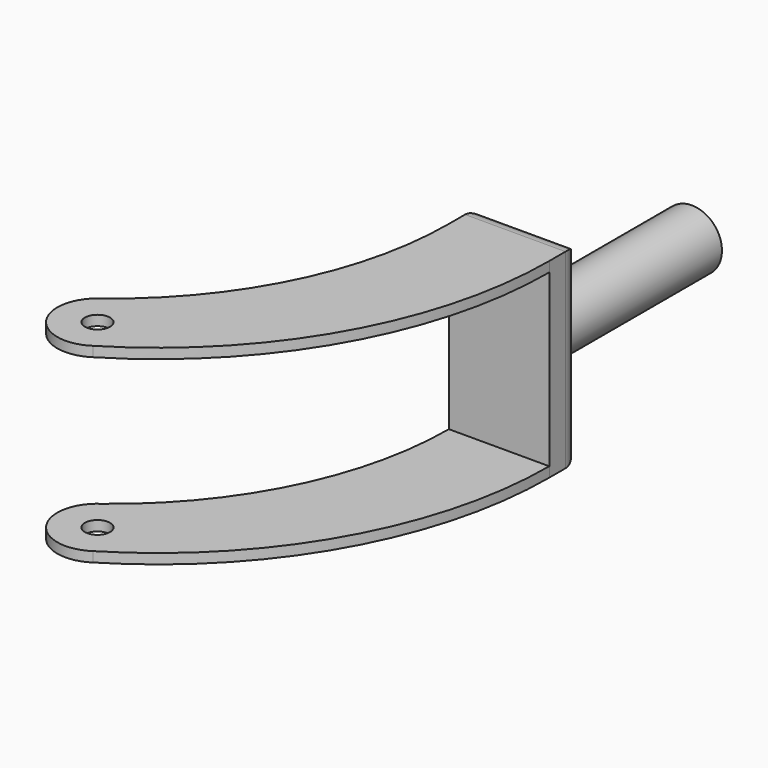
from build123d import *

# Parameters (mm, degrees)
SKETCH_R     = 3.969
PAD_DEPTH    = 30.1625
SKETCH001_W  = 127
SKETCH001_H  = 53.975
POCKET_DEPTH = 79.376
SKETCH002_R  = 9.525
PAD001_DEPTH = 63.5
FILLET_R     = 6.3


with BuildPart() as part:
    # Sketch → Pad (new body, symmetric)
    with BuildSketch(Plane.XY):
        with BuildLine():
            ThreePointArc((-7.075094, 10.546707), (-10.546707, -7.075094), (7.075094, -10.546707))
            ThreePointArc((7.075094, -10.546707), (50.749937, 34.535315), (66.675, 95.25))
            Line((66.675, 95.25), (66.675, 107.95))
            Line((34.925, 107.95), (66.675, 107.95))
            Line((34.925, 95.25), (34.925, 107.95))
            ThreePointArc((-7.075094, 10.546707), (23.848498, 47.977768), (34.925, 95.25))
        make_face()
        Circle(SKETCH_R, mode=Mode.SUBTRACT)
    extrude(amount=PAD_DEPTH, both=True)

    # Sketch001 (on Face4 of Pad) → Pocket (cut, through all)
    with BuildSketch(Plane.YZ.offset(66.675)):
        with Locations((31.75, 0)):
            Rectangle(SKETCH001_W, SKETCH001_H)
    extrude(amount=-POCKET_DEPTH, mode=Mode.SUBTRACT)

    # Sketch002 (on Face8 of Pocket) → Pad001 (join)
    with BuildSketch(Plane(origin=(0, 107.95, 0), x_dir=(-1, 0, 0), z_dir=(0, 1, 0))):
        with Locations((-50.8, 0)):
            Circle(SKETCH002_R)
    extrude(amount=PAD001_DEPTH)

    # Fillet
    fillet_edges = [part.edges().sort_by_distance(p)[0] for p in [
        (50.8, 107.95, 30.1625),
        (66.675, 107.95, 0),
        (34.925, 107.95, 0),
        (50.8, 107.95, -30.1625),
    ]]
    fillet(fillet_edges, radius=FILLET_R)


solid = part.part
